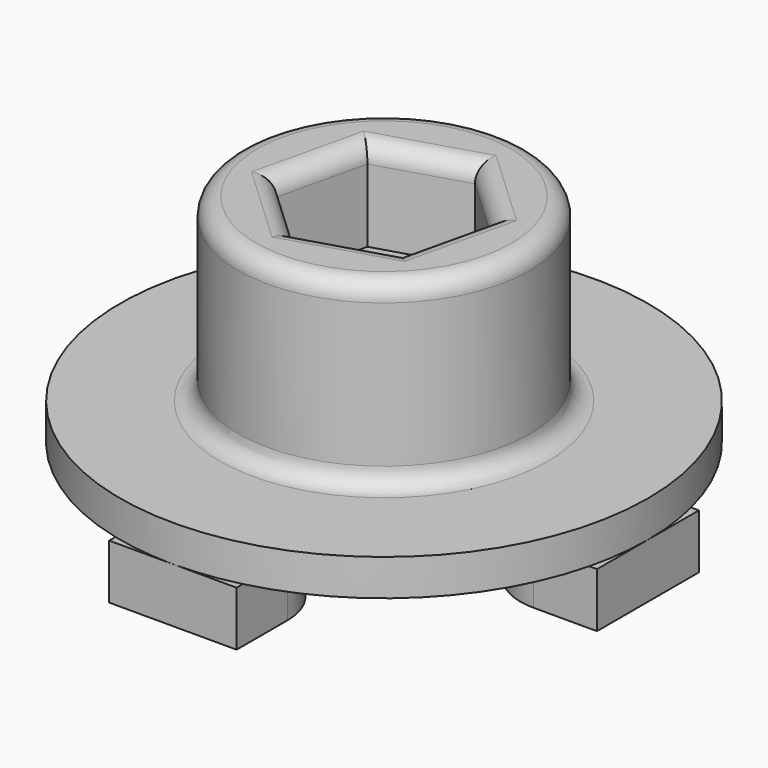
from build123d import *

# Parameters (mm, degrees)
SKETCH_R           = 14.5
PAD_DEPTH          = 2
SKETCH001_R        = 8
PAD001_DEPTH       = 9.9
POCKET_DEPTH       = 5
PAD002_DEPTH       = 3
POLARPATTERN_COUNT = 4
SKETCH004_R        = 6
POCKET001_DEPTH    = 2.9
FILLET_R           = 1
FILLET001_R        = 1
FILLET002_R        = 1


with BuildPart() as part:
    # Sketch → Pad (new body)
    with BuildSketch(Plane.XY):
        Circle(SKETCH_R)
    extrude(amount=PAD_DEPTH)

    # Sketch001 (on Face3 of Pad) → Pad001 (join)
    with BuildSketch(Plane.XY.offset(2)):
        Circle(SKETCH001_R)
    extrude(amount=PAD001_DEPTH)

    # Sketch002 (on Face5 of Pad001) → Pocket (cut)
    with BuildSketch(Plane.XY.offset(11.9)):
        Polygon((3.626666, -3.390946), (4.749979, 1.445312), (1.123312, 4.836258), (-3.626666, 3.390946), (-4.749979, -1.445312), (-1.123312, -4.836258), align=None)
    extrude(amount=-POCKET_DEPTH, mode=Mode.SUBTRACT)

    # Sketch003 (on Face2 of Pocket) → Pad002 (join)
    with BuildSketch(Plane(origin=(0, 0, 0), x_dir=(1, 0, 0), z_dir=(0, 0, -1))):
        with BuildLine():
            ThreePointArc((11, 3.5), (7.5, 0), (11, -3.5))
            Line((14.5, -3.5), (11, -3.5))
            Line((14.5, 3.5), (14.5, -3.5))
            Line((11, 3.5), (14.5, 3.5))
        make_face()
    pad002 = extrude(amount=PAD002_DEPTH)

    # PolarPattern: Pad002 ×4 about axis
    polarpattern_axis = Axis((0, 0, 0), (0, 0, -1))
    for i in range(1, POLARPATTERN_COUNT):
        add(pad002.rotate(polarpattern_axis, i * 360 / POLARPATTERN_COUNT))

    # Sketch004 (on Face4 of PolarPattern) → Pocket001 (cut)
    with BuildSketch(Plane(origin=(0, 0, 0), x_dir=(1, 0, 0), z_dir=(0, 0, -1))):
        Circle(SKETCH004_R)
    extrude(amount=-POCKET001_DEPTH, mode=Mode.SUBTRACT)

    # Fillet
    fillet_edges = [part.edges().sort_by_distance(p)[0] for p in [
        (-8, 0, 2),
    ]]
    fillet(fillet_edges, radius=FILLET_R)

    # Fillet001
    fillet001_edges = [part.edges().sort_by_distance(p)[0] for p in [
        (-8, 0, 11.9),
    ]]
    fillet(fillet001_edges, radius=FILLET001_R)

    # Fillet002
    fillet002_edges = [part.edges().sort_by_distance(p)[0] for p in [
        (4.188323, -0.972817, 11.9),
        (1.251677, -4.113602, 11.9),
        (-2.936646, -3.140785, 11.9),
        (-4.188323, 0.972817, 11.9),
        (-1.251677, 4.113602, 11.9),
        (2.936646, 3.140785, 11.9),
    ]]
    fillet(fillet002_edges, radius=FILLET002_R)


solid = part.part
